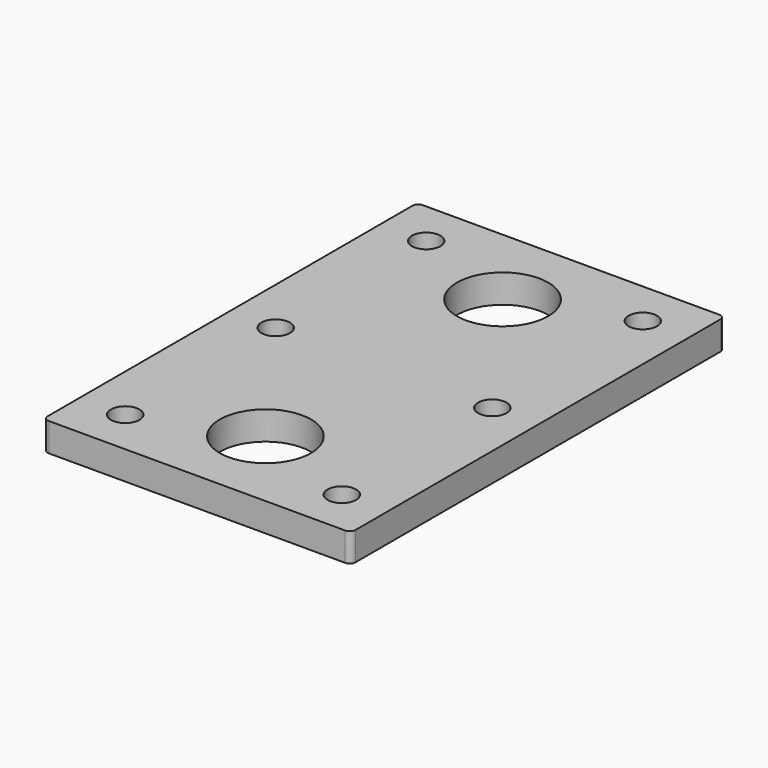
from build123d import *

# Parameters (mm, degrees)
F0_W     = 54
F0_H     = 82
F0_R     = 2.5
F0_R_2   = 8
F1_DEPTH = 5
F2_R     = 1


with BuildPart() as f1:
    # F0 (on Top) → F1 (new body)
    with BuildSketch(Plane.XY):
        Rectangle(F0_W, F0_H)
        with Locations((-19, -33)):
            Circle(F0_R, mode=Mode.SUBTRACT)
        with Locations((0, -26)):
            Circle(F0_R_2, mode=Mode.SUBTRACT)
        with Locations((19, -33)):
            Circle(F0_R, mode=Mode.SUBTRACT)
        with Locations((-19, 0)):
            Circle(F0_R, mode=Mode.SUBTRACT)
        with Locations((-19, 33)):
            Circle(F0_R, mode=Mode.SUBTRACT)
        with Locations((19, 0)):
            Circle(F0_R, mode=Mode.SUBTRACT)
        with Locations((0, 26)):
            Circle(F0_R_2, mode=Mode.SUBTRACT)
        with Locations((19, 33)):
            Circle(F0_R, mode=Mode.SUBTRACT)
    extrude(amount=F1_DEPTH)

    # F2
    f2_edges = [f1.edges().sort_by_distance(p)[0] for p in [
        (27, -41, 2.5),
        (-27, -41, 2.5),
        (-27, 41, 2.5),
        (27, 41, 2.5),
    ]]
    fillet(f2_edges, radius=F2_R)


solid = f1.part
